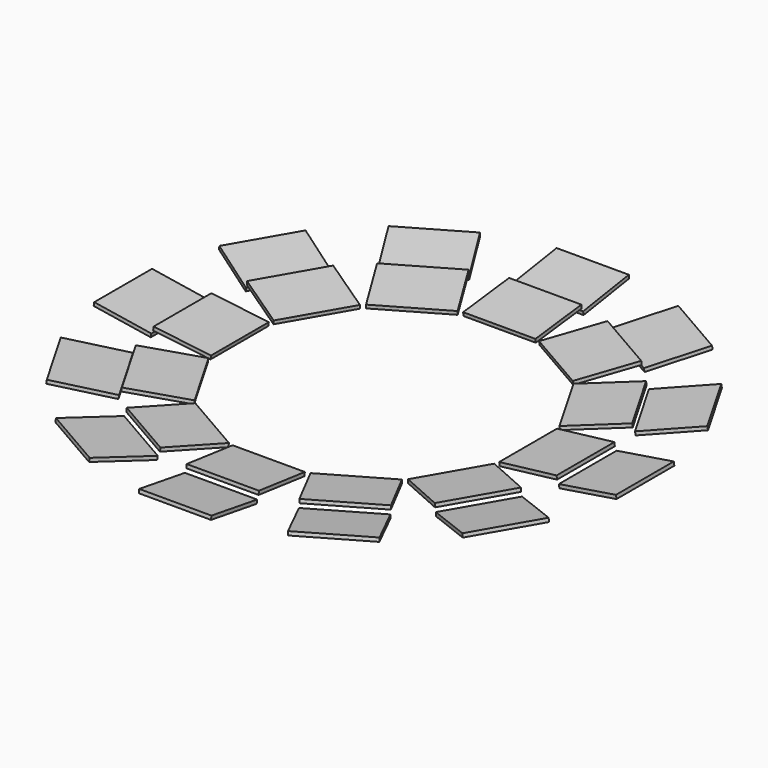
from build123d import *

# Parameters (mm, degrees)
F3_DEPTH = 50
F4_DEPTH = 50
F5_COUNT = 12
F6_COUNT = 12


with BuildPart() as f3:
    # F2 (on Right) → F3 (new body, symmetric)
    with BuildSketch(Plane.YZ):
        Polygon((278.848331135, 14.4201483081), (199.409050421, 4.9649550446), (200, 0), (279.4392807139, 9.4551932635), align=None)
    extrude(amount=F3_DEPTH, both=True)


with BuildPart() as f4:
    # F2 (on Right) → F4 (new body, symmetric)
    with BuildSketch(Plane.YZ):
        Polygon((281.9306449893, 4.9383856418), (282.7131711887, 0), (361.7273414575, 12.5204191916), (360.9448152581, 17.4588048334), align=None)
    extrude(amount=F4_DEPTH, both=True)


with BuildPart() as f5_1:
    # F5: instance of F3
    add(f3.part.rotate(Axis((0, 0, 500), (0, 0, 1)), 1 * 360 / F5_COUNT))


with BuildPart() as f5_2:
    # F5: instance of F3
    add(f3.part.rotate(Axis((0, 0, 500), (0, 0, 1)), 2 * 360 / F5_COUNT))


with BuildPart() as f5_3:
    # F5: instance of F3
    add(f3.part.rotate(Axis((0, 0, 500), (0, 0, 1)), 3 * 360 / F5_COUNT))


with BuildPart() as f5_4:
    # F5: instance of F3
    add(f3.part.rotate(Axis((0, 0, 500), (0, 0, 1)), 4 * 360 / F5_COUNT))


with BuildPart() as f5_5:
    # F5: instance of F3
    add(f3.part.rotate(Axis((0, 0, 500), (0, 0, 1)), 5 * 360 / F5_COUNT))


with BuildPart() as f5_6:
    # F5: instance of F3
    add(f3.part.rotate(Axis((0, 0, 500), (0, 0, 1)), 6 * 360 / F5_COUNT))


with BuildPart() as f5_7:
    # F5: instance of F3
    add(f3.part.rotate(Axis((0, 0, 500), (0, 0, 1)), 7 * 360 / F5_COUNT))


with BuildPart() as f5_8:
    # F5: instance of F3
    add(f3.part.rotate(Axis((0, 0, 500), (0, 0, 1)), 8 * 360 / F5_COUNT))


with BuildPart() as f5_9:
    # F5: instance of F3
    add(f3.part.rotate(Axis((0, 0, 500), (0, 0, 1)), 9 * 360 / F5_COUNT))


with BuildPart() as f5_10:
    # F5: instance of F3
    add(f3.part.rotate(Axis((0, 0, 500), (0, 0, 1)), 10 * 360 / F5_COUNT))


with BuildPart() as f5_11:
    # F5: instance of F3
    add(f3.part.rotate(Axis((0, 0, 500), (0, 0, 1)), 11 * 360 / F5_COUNT))


with BuildPart() as f6_1:
    # F6: instance of F4
    add(f4.part.rotate(Axis((0, 0, 500), (0, 0, 1)), 1 * 360 / F6_COUNT))


with BuildPart() as f6_2:
    # F6: instance of F4
    add(f4.part.rotate(Axis((0, 0, 500), (0, 0, 1)), 2 * 360 / F6_COUNT))


with BuildPart() as f6_3:
    # F6: instance of F4
    add(f4.part.rotate(Axis((0, 0, 500), (0, 0, 1)), 3 * 360 / F6_COUNT))


with BuildPart() as f6_4:
    # F6: instance of F4
    add(f4.part.rotate(Axis((0, 0, 500), (0, 0, 1)), 4 * 360 / F6_COUNT))


with BuildPart() as f6_5:
    # F6: instance of F4
    add(f4.part.rotate(Axis((0, 0, 500), (0, 0, 1)), 5 * 360 / F6_COUNT))


with BuildPart() as f6_6:
    # F6: instance of F4
    add(f4.part.rotate(Axis((0, 0, 500), (0, 0, 1)), 6 * 360 / F6_COUNT))


with BuildPart() as f6_7:
    # F6: instance of F4
    add(f4.part.rotate(Axis((0, 0, 500), (0, 0, 1)), 7 * 360 / F6_COUNT))


with BuildPart() as f6_8:
    # F6: instance of F4
    add(f4.part.rotate(Axis((0, 0, 500), (0, 0, 1)), 8 * 360 / F6_COUNT))


with BuildPart() as f6_9:
    # F6: instance of F4
    add(f4.part.rotate(Axis((0, 0, 500), (0, 0, 1)), 9 * 360 / F6_COUNT))


with BuildPart() as f6_10:
    # F6: instance of F4
    add(f4.part.rotate(Axis((0, 0, 500), (0, 0, 1)), 10 * 360 / F6_COUNT))


with BuildPart() as f6_11:
    # F6: instance of F4
    add(f4.part.rotate(Axis((0, 0, 500), (0, 0, 1)), 11 * 360 / F6_COUNT))


solid = Compound([f3.part, f4.part, f5_1.part, f5_2.part, f5_3.part, f5_4.part, f5_5.part, f5_6.part, f5_7.part, f5_8.part, f5_9.part, f5_10.part, f5_11.part, f6_1.part, f6_2.part, f6_3.part, f6_4.part, f6_5.part, f6_6.part, f6_7.part, f6_8.part, f6_9.part, f6_10.part, f6_11.part])
